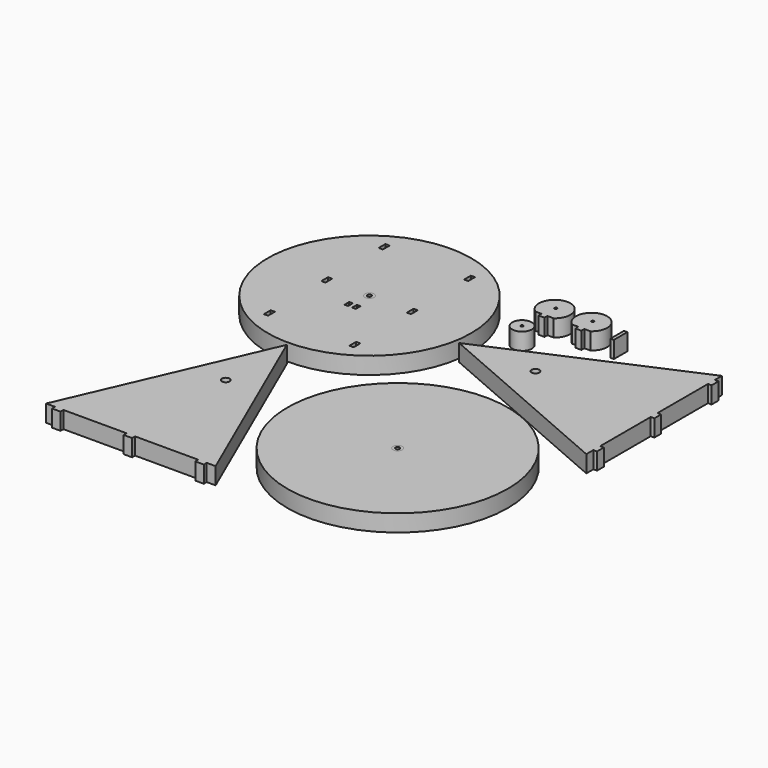
from build123d import *

# Parameters (mm, degrees)
F0_R     = 11.5824
F0_R_2   = 29.21
F0_R_3   = 3.8227
F0_W     = 10.16
F0_H     = 50.8
F0_R_4   = 13.97
F0_R_5   = 6.096
F1_DEPTH = 50.8
F0_R_6   = 304.8
F0_W_2   = 12.446
F0_H_2   = 25.4
F0_W_3   = 10.922
F0_H_3   = 17.78
F0_R_7   = 330.2
F2_DEPTH = 50.8


with BuildPart() as f1:
    # F0 (on Top) → F1 (new body)
    with BuildSketch(Plane.XY):
        Polygon((-137.183315, 131.575095), (447.016685, -122.424905), (447.016685, -95.881905), (457.938685, -95.881905), (457.938685, -70.481905), (447.016685, -70.481905), (447.016685, 111.026304), (447.016685, 118.875095), (457.938685, 118.875095), (457.938685, 144.275095), (447.016685, 144.275095), (447.016685, 333.632095), (457.937395, 332.901672), (457.93855, 358.981327), (447.016685, 359.035666), (447.016685, 385.575095), align=None)
        with Locations((91.416685, 131.575095)):
            Circle(F0_R, mode=Mode.SUBTRACT)
        with Locations((-76.432413, 291.166897)):
            Circle(F0_R_2)
        with Locations((-76.432413, 291.166897)):
            Circle(F0_R_3, mode=Mode.SUBTRACT)
        with BuildLine():
            Line((-61.421408, 367.476403), (-42.66391, 367.476403))
            ThreePointArc((-42.66391, 367.476403), (-70.167548, 452.566403), (-97.671186, 367.476403))
            Line((-97.671186, 367.476403), (-79.201408, 367.476403))
            Line((-79.201408, 367.476403), (-79.201408, 356.554403))
            Line((-79.201408, 356.554403), (-61.421408, 356.554403))
            Line((-61.421408, 356.554403), (-61.421408, 367.476403))
        make_face()
        with Locations((-70.311408, 410.021403)):
            Circle(F0_R_3, mode=Mode.SUBTRACT)
        with BuildLine():
            Line((47.25512, 369.959414), (65.868758, 369.959414))
            ThreePointArc((65.868758, 369.959414), (38.36512, 455.049414), (10.861482, 369.959414))
            Line((10.861482, 369.959414), (29.47512, 369.959414))
            Line((29.47512, 369.959414), (29.47512, 359.037414))
            Line((29.47512, 359.037414), (47.25512, 359.037414))
            Line((47.25512, 359.037414), (47.25512, 369.959414))
        make_face()
        with Locations((38.36512, 412.504414)):
            Circle(F0_R_3, mode=Mode.SUBTRACT)
        with Locations((130.4862, 395.392873)):
            Rectangle(F0_W, F0_H)
        Polygon((-446.424039, -127.489146), (-700.424039, -711.689146), (-673.881039, -711.689146), (-673.881039, -722.611146), (-648.481039, -722.611146), (-648.481039, -711.689146), (-459.124039, -711.689146), (-459.124039, -722.611146), (-433.724039, -722.611146), (-433.724039, -711.689146), (-244.367039, -711.689146), (-244.367039, -722.611146), (-218.967039, -722.611146), (-218.967039, -711.689146), (-192.424039, -711.689146), align=None)
        with Locations((-446.424039, -356.089146)):
            Circle(F0_R, mode=Mode.SUBTRACT)
        with Locations((-450.94986, 187.882235)):
            Circle(F0_R_4)
        with Locations((-450.94986, 187.882235)):
            Circle(F0_R_5, mode=Mode.SUBTRACT)
        with Locations((83.224431, -374.443263)):
            Circle(F0_R_4)
        with Locations((83.224431, -374.443263)):
            Circle(F0_R_5, mode=Mode.SUBTRACT)
        Polygon((-137.183315, 131.575095), (447.016685, -122.424905), (447.016685, -95.881905), (457.938685, -95.881905), (457.938685, -70.481905), (447.016685, -70.481905), (447.016685, 111.026304), (447.016685, 118.875095), (457.938685, 118.875095), (457.938685, 144.275095), (447.016685, 144.275095), (447.016685, 333.632095), (457.937395, 332.901672), (457.93855, 358.981327), (447.016685, 359.035666), (447.016685, 385.575095), align=None)
        with Locations((91.416685, 131.575095)):
            Circle(F0_R, mode=Mode.SUBTRACT)
        Polygon((-446.424039, -127.489146), (-700.424039, -711.689146), (-673.881039, -711.689146), (-673.881039, -722.611146), (-648.481039, -722.611146), (-648.481039, -711.689146), (-459.124039, -711.689146), (-459.124039, -722.611146), (-433.724039, -722.611146), (-433.724039, -711.689146), (-244.367039, -711.689146), (-244.367039, -722.611146), (-218.967039, -722.611146), (-218.967039, -711.689146), (-192.424039, -711.689146), align=None)
        with Locations((-446.424039, -356.089146)):
            Circle(F0_R, mode=Mode.SUBTRACT)
    extrude(amount=F1_DEPTH)


with BuildPart() as f2:
    # F0 (on Top) → F2 (new body)
    with BuildSketch(Plane.XY):
        with Locations((-450.94986, 187.882235)):
            Circle(F0_R_6)
        with Locations((-578.988549, -26.876191)):
            Rectangle(F0_W_2, F0_H_2, mode=Mode.SUBTRACT)
        with Locations((-578.988415, 187.880809)):
            Rectangle(F0_W_2, F0_H_2, mode=Mode.SUBTRACT)
        with Locations((-462.50686, 124.382235)):
            Rectangle(F0_W_3, F0_H_3, mode=Mode.SUBTRACT)
        Polygon((-329.140095, -39.596164), (-329.140095, -14.194817), (-316.516302, -14.194817), (-316.516302, -39.594817), align=None, mode=Mode.SUBTRACT)
        Polygon((-444.85386, 115.492235), (-444.85386, 133.272235), (-433.93186, 133.272368), (-433.93186, 115.492235), align=None, mode=Mode.SUBTRACT)
        with Locations((-450.94986, 187.882235)):
            Circle(F0_R_4, mode=Mode.SUBTRACT)
        Polygon((-316.516302, 175.162183), (-328.962279, 175.186283), (-328.913095, 200.586235), (-316.516302, 200.586235), align=None, mode=Mode.SUBTRACT)
        with Locations((-578.990251, 402.637809)):
            Rectangle(F0_W_2, F0_H_2, mode=Mode.SUBTRACT)
        Polygon((-316.69956, 389.943235), (-329.14556, 389.943236), (-329.145317, 415.343236), (-316.69956, 415.343236), align=None, mode=Mode.SUBTRACT)
        with Locations((83.224431, -374.443263)):
            Circle(F0_R_7)
        with Locations((83.224431, -374.443263)):
            Circle(F0_R_4, mode=Mode.SUBTRACT)
    extrude(amount=F2_DEPTH)


solid = Compound([f1.part, f2.part])
